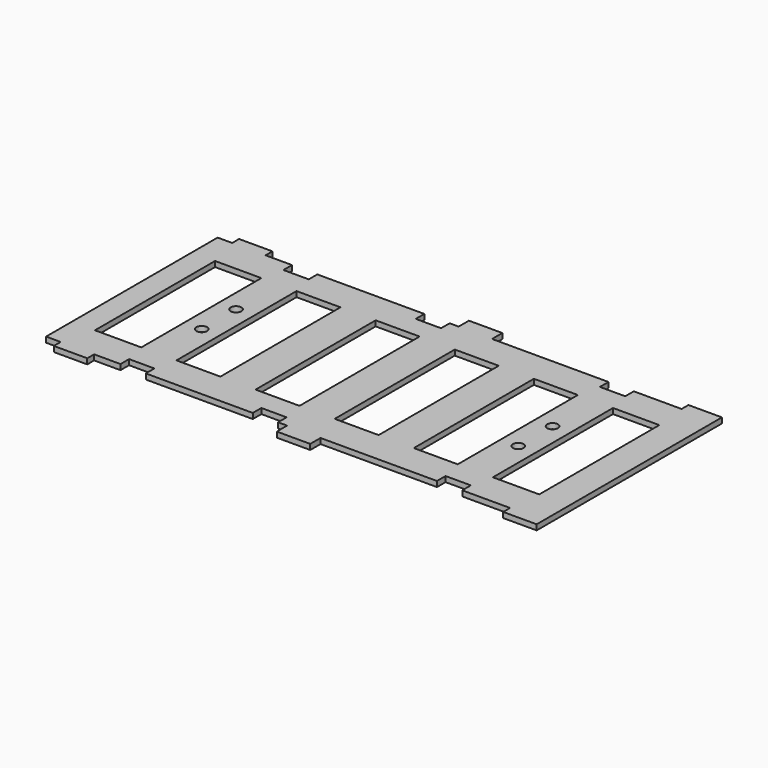
from build123d import *

# Parameters (mm, degrees)
F0_W     = 13.716
F0_H     = 44.45
F0_R     = 1.5875
F0_W_2   = 13.0175
F1_DEPTH = 1.6002


with BuildPart() as f1:
    # F0 (on Top) → F1 (new body)
    with BuildSketch(Plane.XY):
        Polygon((63.754, 34.29), (63.754, 31.75), (49.5935, 31.75), (49.5935, 28.575), (45.847, 28.575), (42.1005, 28.575), (42.1005, 31.75), (7.62, 31.75), (7.62, 35.56), (-2.286, 35.56), (-2.286, 31.75), (-4.953, 31.75), (-4.953, 28.575), (-8.6995, 28.575), (-12.446, 28.575), (-12.446, 31.75), (-44.1325, 31.75), (-44.1325, 28.575), (-47.879, 28.575), (-51.6255, 28.575), (-51.6255, 31.75), (-59.436, 31.75), (-59.436, 34.29), (-69.342, 34.29), (-69.342, 31.75), (-73.66, 31.75), (-73.66, -31.75), (-69.342, -31.75), (-69.342, -34.29), (-59.436, -34.29), (-59.436, -31.75), (-51.6255, -31.75), (-51.6255, -28.575), (-47.879, -28.575), (-44.1325, -28.575), (-44.1325, -31.75), (-12.446, -31.75), (-12.446, -28.575), (-8.6995, -28.575), (-4.953, -28.575), (-4.953, -31.75), (-2.286, -31.75), (-2.286, -35.56), (7.62, -35.56), (7.62, -31.75), (42.1005, -31.75), (42.1005, -28.575), (45.847, -28.575), (49.5935, -28.575), (49.5935, -31.75), (63.754, -31.75), (63.754, -34.29), (73.66, -34.29), (73.66, -31.75), (73.66, 31.75), (73.66, 34.29), align=None)
        with Locations((-59.944, 0)):
            Rectangle(F0_W, F0_H, mode=Mode.SUBTRACT)
        with Locations((-47.879, -6.35)):
            Circle(F0_R, mode=Mode.SUBTRACT)
        with Locations((-36.16325, 0)):
            Rectangle(F0_W_2, F0_H, mode=Mode.SUBTRACT)
        with Locations((-12.73175, 0)):
            Rectangle(F0_W_2, F0_H, mode=Mode.SUBTRACT)
        with Locations((10.69975, 0)):
            Rectangle(F0_W_2, F0_H, mode=Mode.SUBTRACT)
        with Locations((34.13125, 0)):
            Rectangle(F0_W_2, F0_H, mode=Mode.SUBTRACT)
        with Locations((45.847, -6.35)):
            Circle(F0_R, mode=Mode.SUBTRACT)
        with Locations((57.912, 0)):
            Rectangle(F0_W, F0_H, mode=Mode.SUBTRACT)
        with Locations((-47.879, 6.35)):
            Circle(F0_R, mode=Mode.SUBTRACT)
        with Locations((45.847, 6.35)):
            Circle(F0_R, mode=Mode.SUBTRACT)
    extrude(amount=F1_DEPTH)


solid = f1.part
